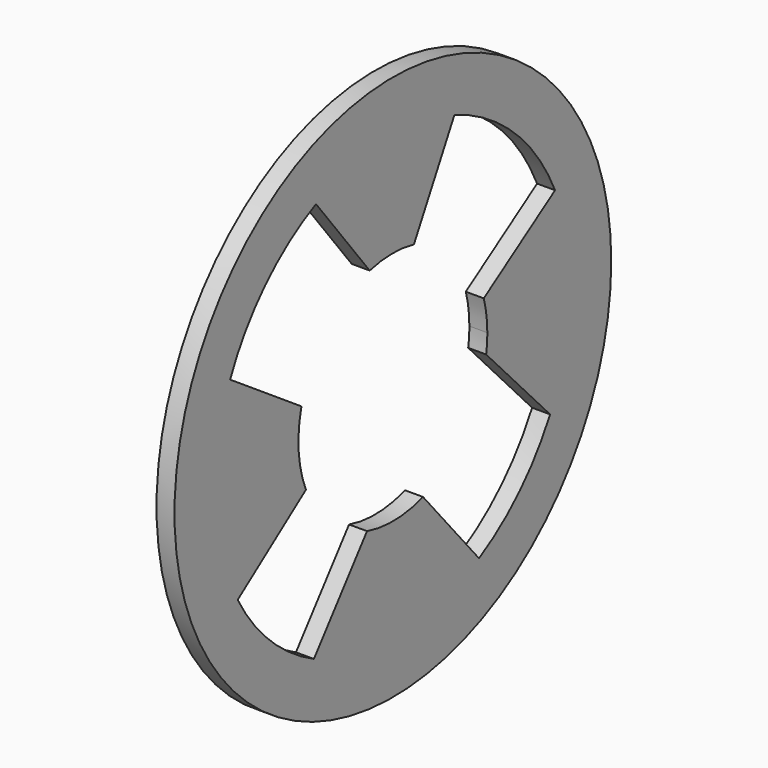
from build123d import *

# Parameters (mm, degrees)
F0_R     = 75.9376
F0_R_2   = 68.52161
F1_DEPTH = 5


with BuildPart() as f1:
    # F0 (on Right) → F1 (new body)
    with BuildSketch(Plane.YZ):
        Circle(F0_R)
        Circle(F0_R_2, mode=Mode.SUBTRACT)
        Circle(F0_R_2)
        with BuildLine():
            ThreePointArc((56.394858, 25.318694), (60.446718, 12.946452), (61.817605, 0))
            ThreePointArc((61.817605, 0), (60.002667, -14.869305), (54.664425, -28.865497))
            ThreePointArc((54.664425, -28.865497), (44.14642, -43.272507), (29.952561, -54.076431))
            ThreePointArc((29.952561, -54.076431), (1.408359, -61.80156), (-27.458115, -55.384729))
            ThreePointArc((-27.458115, -55.384729), (-42.625694, -44.771269), (-53.970641, -30.142764))
            ThreePointArc((-53.970641, -30.142764), (-61.747297, -2.947473), (-56.596401, 24.864908))
            ThreePointArc((-56.596401, 24.864908), (-44.432395, 42.978815), (-26.732948, 55.738369))
            ThreePointArc((-26.732948, 55.738369), (-2.889331, 61.750045), (21.411461, 57.991082))
            ThreePointArc((21.411461, 57.991082), (42.193922, 45.178416), (56.394858, 25.318694))
        make_face(mode=Mode.SUBTRACT)
        with BuildLine():
            Line((-31.792757, 8.234946), (-56.596401, 24.864908))
            ThreePointArc((-56.596401, 24.864908), (-61.747297, -2.947473), (-53.970641, -30.142764))
            Line((-53.970641, -30.142764), (-30.23852, -12.815055))
            ThreePointArc((-30.23852, -12.815055), (-32.752793, -2.418318), (-31.792757, 8.234946))
        make_face()
        with BuildLine():
            Line((7.324043, 32.014874), (21.411461, 57.991082))
            ThreePointArc((21.411461, 57.991082), (-2.889331, 61.750045), (-26.732948, 55.738369))
            Line((-26.732948, 55.738369), (-8.052702, 31.839405))
            ThreePointArc((-8.052702, 31.839405), (-0.374745, 32.839813), (7.324043, 32.014874))
        make_face()
        with BuildLine():
            ThreePointArc((-27.458115, -55.384729), (1.408359, -61.80156), (29.952561, -54.076431))
            Line((29.952561, -54.076431), (10.481953, -31.124306))
            ThreePointArc((10.481953, -31.124306), (0.777417, -32.832748), (-8.997103, -31.585533))
            Line((-8.997103, -31.585533), (-27.458115, -55.384729))
        make_face()
        with BuildLine():
            ThreePointArc((54.664425, -28.865497), (60.002667, -14.869305), (61.817605, 0))
            ThreePointArc((61.817605, 0), (60.446718, 12.946452), (56.394858, 25.318694))
            Line((56.394858, 25.318694), (31.605966, 8.925057))
            ThreePointArc((31.605966, 8.925057), (32.531487, 4.505117), (32.841951, 0))
            ThreePointArc((32.841951, 0), (32.739709, -2.589439), (32.43362, -5.162756))
            Line((32.43362, -5.162756), (54.664425, -28.865497))
        make_face()
    extrude(amount=-F1_DEPTH)


solid = f1.part
